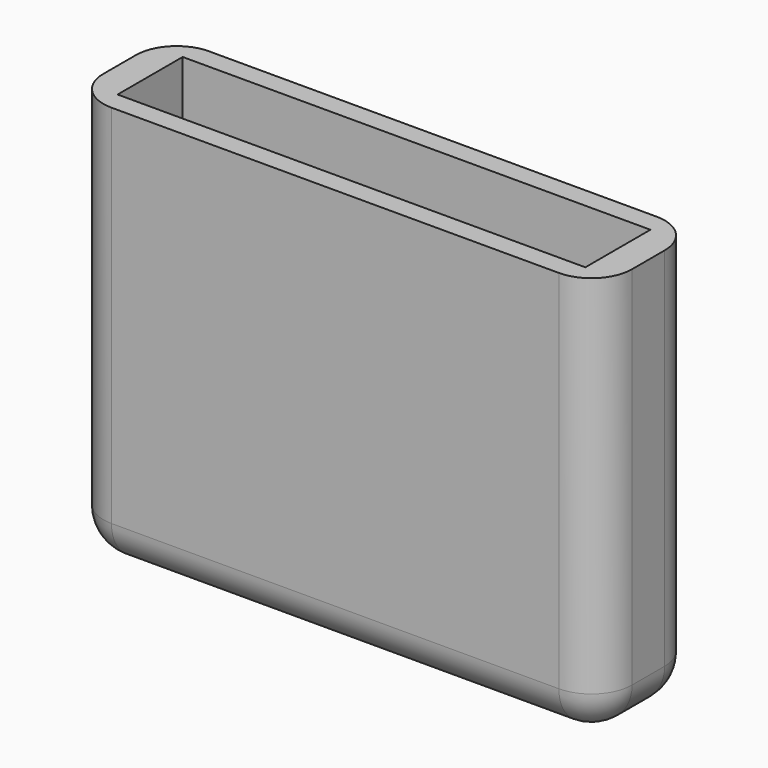
from build123d import *

# Parameters (mm, degrees)
F0_W     = 26
F0_H     = 6
F1_DEPTH = 20
F2_W     = 23
F2_H     = 4
F3_DEPTH = 18
F4_R     = 2


with BuildPart() as f1:
    # F0 (on Top) → F1 (new body)
    with BuildSketch(Plane.XY):
        Rectangle(F0_W, F0_H)
    extrude(amount=F1_DEPTH)

    # F2 (on face) → F3 (cut)
    with BuildSketch(Plane.XY.offset(20)):
        Rectangle(F2_W, F2_H)
    extrude(amount=-F3_DEPTH, mode=Mode.SUBTRACT)

    # F4
    f4_edges = [f1.edges().sort_by_distance(p)[0] for p in [
        (-13, 3, 10),
        (-13, -3, 10),
        (0, -3, 0),
        (13, 0, 0),
        (0, 3, 0),
        (-13, 0, 0),
        (13, -3, 10),
        (13, 3, 10),
    ]]
    fillet(f4_edges, radius=F4_R)


solid = f1.part
